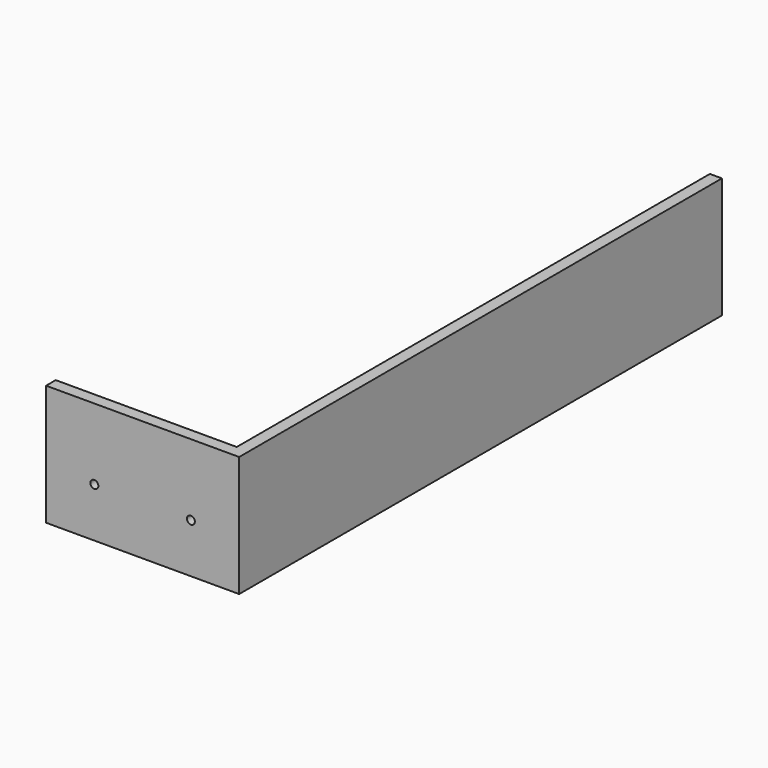
from build123d import *

# Parameters (mm, degrees)
F0_W     = 80
F0_H     = 50
F0_R     = 1.65
F1_DEPTH = 5
F2_W     = 245
F2_H     = 50
F3_DEPTH = 5


with BuildPart() as f1:
    # F0 (on Front) → F1 (new body)
    with BuildSketch(Plane.XZ):
        with Locations((40, -75)):
            Rectangle(F0_W, F0_H)
        with Locations((20, -79.52825)):
            Circle(F0_R, mode=Mode.SUBTRACT)
        with Locations((60, -79.52825)):
            Circle(F0_R, mode=Mode.SUBTRACT)
    extrude(amount=F1_DEPTH)

    # F2 (on face) → F3 (join)
    with BuildSketch(Plane.YZ.offset(80)):
        with Locations((122.5, -75)):
            Rectangle(F2_W, F2_H)
    extrude(amount=-F3_DEPTH)


solid = f1.part
